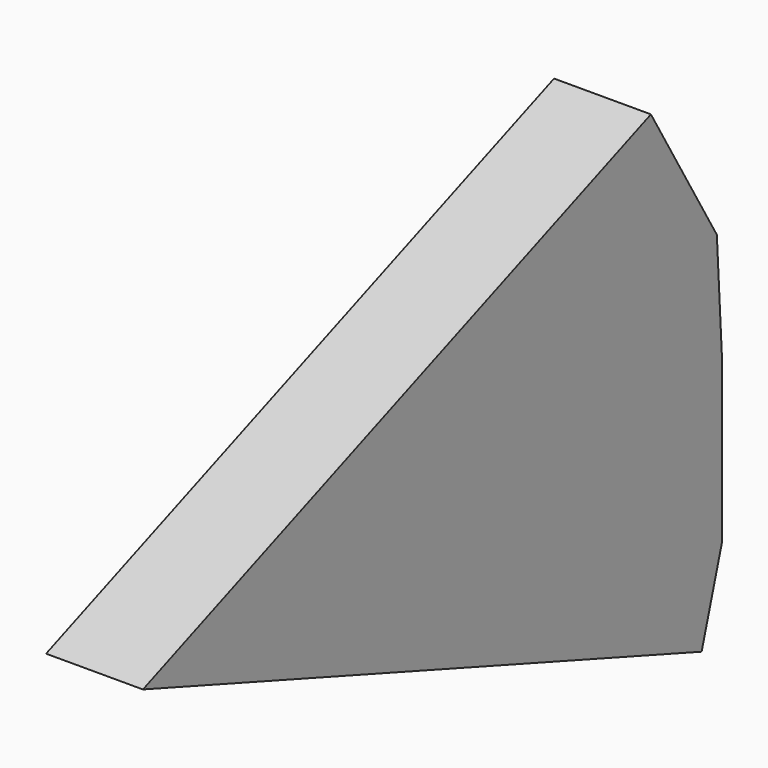
from build123d import *

# Parameters (mm, degrees)
F1_DEPTH = 12.03937


with BuildPart() as f1:
    # F0 (on Right) → F1 (new body)
    with BuildSketch(Plane.YZ):
        Polygon((-28.903449, 20.361057), (-29.691724, 34.024507), (-64.375862, 28.769335), align=None)
        Polygon((-64.375862, 28.769335), (-29.691724, 34.024507), (-39.93931, 51.366575), (-118.8695, 20.512724), (-92.762998, 24.468254), align=None)
        Polygon((-28.903449, 0), (-28.903449, 17.470712), (-68.842761, 17.470712), align=None)
        Polygon((-28.903449, 20.361057), (-64.375862, 28.769335), (-92.762998, 24.468254), (-68.842761, 17.470712), (-28.903449, 17.470712), align=None)
        Polygon((-68.842761, 17.470712), (-92.762998, 24.468254), (-118.8695, 20.512724), (-32.056551, -10.644461), (-28.903449, 0), align=None)
    extrude(amount=F1_DEPTH)


solid = f1.part
